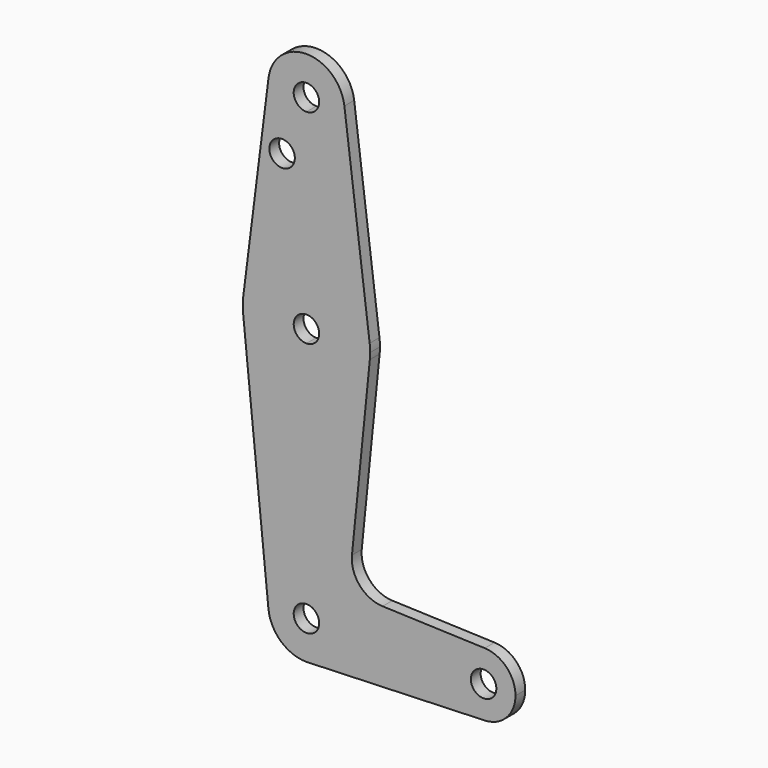
from build123d import *

# Parameters (mm, degrees)
F0_R     = 3.175
F1_DEPTH = 3.048


with BuildPart() as f1:
    # F0 (on Front) → F1 (new body)
    with BuildSketch(Plane.XZ):
        with BuildLine():
            ThreePointArc((-9.4502929642, 58.3965874672), (-7.14375, 50.9057671577), (0, 47.6809624672))
            ThreePointArc((0, 47.6809624672), (6.7351920908, 50.4707703764), (9.525, 57.2059624672))
            ThreePointArc((9.525, 57.2059624672), (9.5063048942, 57.8024457092), (9.4502929642, 58.3965874672))
            ThreePointArc((9.4502929642, 58.3965874672), (0, 66.7309624672), (-9.4502929642, 58.3965874672))
        make_face()
        with BuildLine():
            ThreePointArc((3.175, 57.2059624672), (2.2450640303, 54.9608984369), (0, 54.0309624672))
            ThreePointArc((0, 54.0309624672), (-2.2450640303, 59.4510264975), (3.175, 57.2059624672))
        make_face(mode=Mode.SUBTRACT)
        with BuildLine():
            ThreePointArc((9.525, 57.2059624672), (6.7351920908, 50.4707703764), (0, 47.6809624672))
            Line((0, 47.6809624672), (0, 42.9311624672))
            Line((0, 42.9311624672), (0, 22.2809624672))
            ThreePointArc((0, 22.2809624672), (10.5003255158, 18.3122124672), (15.7504882737, 8.3903374672))
            Line((15.7504882737, 8.3903374672), (9.4502929642, 58.3965874672))
            ThreePointArc((9.4502929642, 58.3965874672), (9.5063048942, 57.8024457092), (9.525, 57.2059624672))
        make_face()
        with BuildLine():
            Line((0, 42.9311624672), (0, 47.6809624672))
            ThreePointArc((0, 47.6809624672), (-7.14375, 50.9057671577), (-9.4502929642, 58.3965874672))
            Line((-9.4502929642, 58.3965874672), (-15.7504882737, 8.3903374672))
            ThreePointArc((-15.7504882737, 8.3903374672), (-10.5003255158, 18.3122124672), (0, 22.2809624672))
            Line((0, 22.2809624672), (0, 42.9311624672))
        make_face()
        with Locations((-6.0717500746, 42.9311624672)):
            Circle(F0_R, mode=Mode.SUBTRACT)
        with BuildLine():
            ThreePointArc((15.7504882737, 8.3903374672), (10.5003255158, 18.3122124672), (0, 22.2809624672))
            Line((0, 22.2809624672), (0, 9.5809624672))
            ThreePointArc((0, 9.5809624672), (2.2450640303, 8.6510264975), (3.175, 6.4059624672))
            ThreePointArc((3.175, 6.4059624672), (2.2450640303, 4.1608984369), (0, 3.2309624672))
            Line((0, 3.2309624672), (0, -9.4690375328))
            ThreePointArc((0, -9.4690375328), (10.6492737428, -5.3672526311), (15.7954255641, 4.8184624672))
            ThreePointArc((15.7954255641, 4.8184624672), (15.8550939106, 5.6112159131), (15.875, 6.4059624672))
            ThreePointArc((15.875, 6.4059624672), (15.8438414904, 7.4001012038), (15.7504882737, 8.3903374672))
        make_face()
        with BuildLine():
            Line((0, 9.5809624672), (0, 22.2809624672))
            ThreePointArc((0, 22.2809624672), (-10.5003255158, 18.3122124672), (-15.7504882737, 8.3903374672))
            ThreePointArc((-15.7504882737, 8.3903374672), (-15.8737438155, 6.6056679539), (-15.7954255641, 4.8184624672))
            ThreePointArc((-15.7954255641, 4.8184624672), (-10.6492737428, -5.3672526311), (0, -9.4690375328))
            Line((0, -9.4690375328), (0, 3.2309624672))
            ThreePointArc((0, 3.2309624672), (-3.175, 6.4059624672), (0, 9.5809624672))
        make_face()
        with BuildLine():
            ThreePointArc((0, -9.4690375328), (-10.6492737428, -5.3672526311), (-15.7954255641, 4.8184624672))
            Line((-15.7954255641, 4.8184624672), (-9.4772553384, -58.0465375328))
            ThreePointArc((-9.4772553384, -58.0465375328), (-7.063929059, -50.7044732871), (0, -47.5690375328))
            Line((0, -47.5690375328), (0, -9.4690375328))
        make_face()
        with BuildLine():
            ThreePointArc((15.7954255641, 4.8184624672), (10.6492737428, -5.3672526311), (0, -9.4690375328))
            Line((0, -9.4690375328), (0, -47.5690375328))
            ThreePointArc((0, -47.5690375328), (6.7351920908, -50.358845442), (9.525, -57.0940375328))
            Line((9.525, -57.0940375328), (36.1995681089, -57.0940375328))
            ThreePointArc((36.1995681089, -57.0940375328), (38.6258729985, -51.381714476), (44.4214603181, -49.1616339046))
            Line((44.4214603181, -49.1616339046), (18.9658613699, -48.2490008161))
            ThreePointArc((18.9658613699, -48.2490008161), (13.2600729588, -45.530564368), (11.3403594842, -39.508885342))
            Line((11.3403594842, -39.508885342), (15.7954255641, 4.8184624672))
        make_face()
        with BuildLine():
            ThreePointArc((0, -47.5690375328), (-7.063929059, -50.7044732871), (-9.4772553384, -58.0465375328))
            ThreePointArc((-9.4772553384, -58.0465375328), (-6.3895642457, -64.1579665918), (0, -66.6190375328))
            Line((0, -66.6190375328), (0.6821030679, -66.5945828016))
            ThreePointArc((0.6821030679, -66.5945828016), (6.9721824676, -63.5835904172), (9.525, -57.0940375328))
            Line((9.525, -57.0940375328), (3.175, -57.0940375328))
            ThreePointArc((3.175, -57.0940375328), (-2.2450640303, -59.3391015631), (0, -53.9190375328))
            Line((0, -53.9190375328), (0, -47.5690375328))
        make_face()
        with BuildLine():
            Line((0.6821030679, -66.5945828016), (0, -66.6190375328))
            ThreePointArc((0, -66.6190375328), (0.3412706511, -66.6129218867), (0.6821030679, -66.5945828016))
        make_face()
        with BuildLine():
            Line((36.1995681089, -57.0940375328), (9.525, -57.0940375328))
            ThreePointArc((9.525, -57.0940375328), (6.9721824676, -63.5835904172), (0.6821030679, -66.5945828016))
            Line((0.6821030679, -66.5945828016), (44.4214603181, -65.026441161))
            ThreePointArc((44.4214603181, -65.026441161), (38.6258729985, -62.8063605896), (36.1995681089, -57.0940375328))
        make_face()
        with BuildLine():
            ThreePointArc((44.4214603181, -49.1616339046), (38.6258729985, -51.381714476), (36.1995681089, -57.0940375328))
            ThreePointArc((36.1995681089, -57.0940375328), (38.6258729985, -62.8063605896), (44.4214603181, -65.026441161))
            ThreePointArc((44.4214603181, -65.026441161), (49.8493911657, -62.6052326432), (52.0745681089, -57.0940375328))
            ThreePointArc((52.0745681089, -57.0940375328), (49.8493911657, -51.5828424224), (44.4214603181, -49.1616339046))
        make_face()
        with BuildLine():
            ThreePointArc((47.3120681089, -57.0940375328), (44.1370681089, -60.2690375328), (40.9620681089, -57.0940375328))
            ThreePointArc((40.9620681089, -57.0940375328), (44.1370681089, -53.9190375328), (47.3120681089, -57.0940375328))
        make_face(mode=Mode.SUBTRACT)
        with BuildLine():
            ThreePointArc((9.525, -57.0940375328), (6.7351920908, -50.358845442), (0, -47.5690375328))
            Line((0, -47.5690375328), (0, -53.9190375328))
            ThreePointArc((0, -53.9190375328), (2.2450640303, -54.8489735025), (3.175, -57.0940375328))
            Line((3.175, -57.0940375328), (9.525, -57.0940375328))
        make_face()
    extrude(amount=F1_DEPTH)


solid = f1.part
